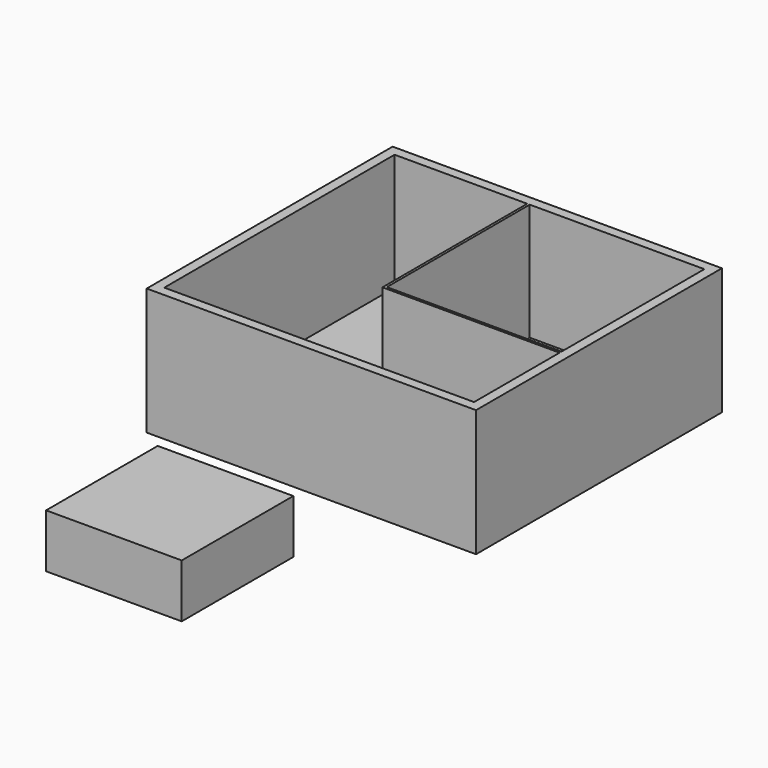
from build123d import *

# Parameters (mm, degrees)
F0_W     = 857.25
F0_H     = 800.1
F0_W_2   = 806.45
F0_H_2   = 749.3
F1_DEPTH = 304.8
F2_DEPTH = 25.4
F3_W     = 353.06
F3_H     = 363.22
F4_DEPTH = 139.7
F6_DEPTH = 304.8


with BuildPart() as f1:
    # F0 (on Top) → F1 (new body)
    with BuildSketch(Plane.XY):
        with Locations((0, 374.65)):
            Rectangle(F0_W, F0_H)
        with Locations((0, 374.65)):
            Rectangle(F0_W_2, F0_H_2, mode=Mode.SUBTRACT)
    extrude(amount=F1_DEPTH)

    # F0 (on Top) → F2 (join)
    with BuildSketch(Plane.XY):
        with Locations((0, 374.65)):
            Rectangle(F0_W, F0_H)
        with Locations((0, 374.65)):
            Rectangle(F0_W_2, F0_H_2, mode=Mode.SUBTRACT)
        with Locations((0, 374.65)):
            Rectangle(F0_W_2, F0_H_2)
    extrude(amount=-F2_DEPTH)

    # F5 (on face) → F6 (join, through all)
    with BuildSketch(Plane.XY):
        Polygon((-51.435, 278.13), (403.225, 278.13), (403.225, 284.48), (-51.435, 284.48), (-51.435, 749.3), (-57.785, 749.3), (-57.785, 284.48), (-57.785, 278.13), align=None)
    extrude(amount=F6_DEPTH)


with BuildPart() as f4:
    # F3 (on Top) → F4 (new body)
    with BuildSketch(Plane.XY):
        with Locations((0, -486.41)):
            Rectangle(F3_W, F3_H)
    extrude(amount=F4_DEPTH)


solid = Compound([f1.part, f4.part])
